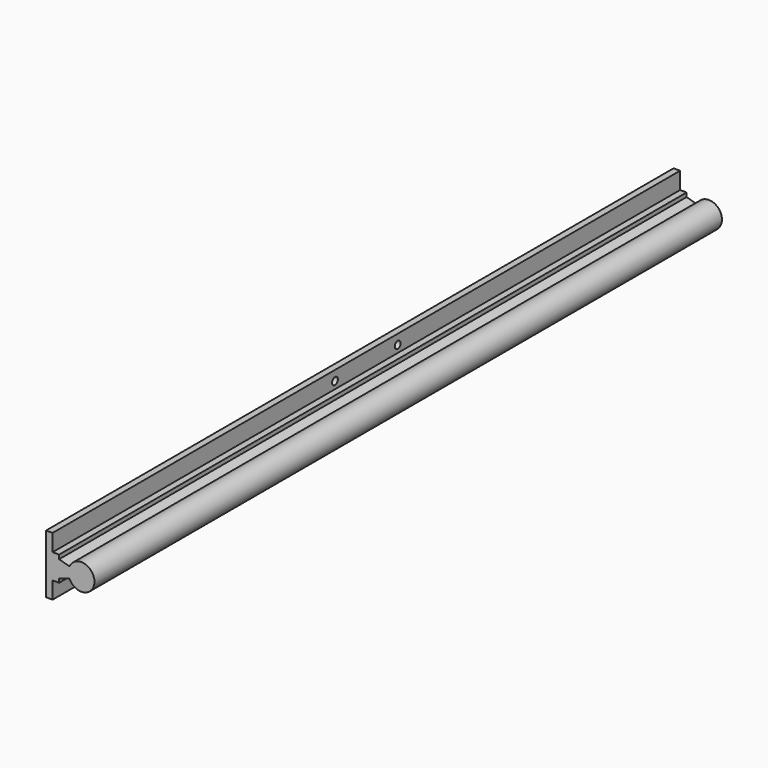
from build123d import *

# Parameters (mm, degrees)
F1_DEPTH = 300
F2_R     = 2.75
F3_DEPTH = 5


with BuildPart() as f1:
    # F0 (on Front) → F1 (new body, symmetric)
    with BuildSketch(Plane.XZ):
        with BuildLine():
            Line((5, 22.5), (0, 22.5))
            Line((0, 22.5), (0, -22.5))
            Line((0, -22.5), (5, -22.5))
            Line((5, -22.5), (5, -9.5))
            Line((5, -9.5), (10, -9.5))
            Line((10, -9.5), (10, -6.5))
            Line((10, -6.5), (17.920467, -4.190713))
            ThreePointArc((17.920467, -4.190713), (36.999929, 0.037742), (17.889092, 4.122058))
            Line((17.889092, 4.122058), (10, 6.379587))
            Line((10, 6.379587), (10, 9.5))
            Line((10, 9.5), (5, 9.5))
            Line((5, 9.5), (5, 22.5))
        make_face()
    extrude(amount=F1_DEPTH, both=True)

    # F2 (on face) → F3 (cut)
    with BuildSketch(Plane(origin=(0, 0, 0), x_dir=(0, -1, 0), z_dir=(-1, 0, 0))):
        with Locations((30, 15)):
            Circle(F2_R)
        with Locations((30, -15)):
            Circle(F2_R)
        with Locations((-30, -15)):
            Circle(F2_R)
        with Locations((-30, 15)):
            Circle(F2_R)
    extrude(amount=-F3_DEPTH, mode=Mode.SUBTRACT)


solid = f1.part
